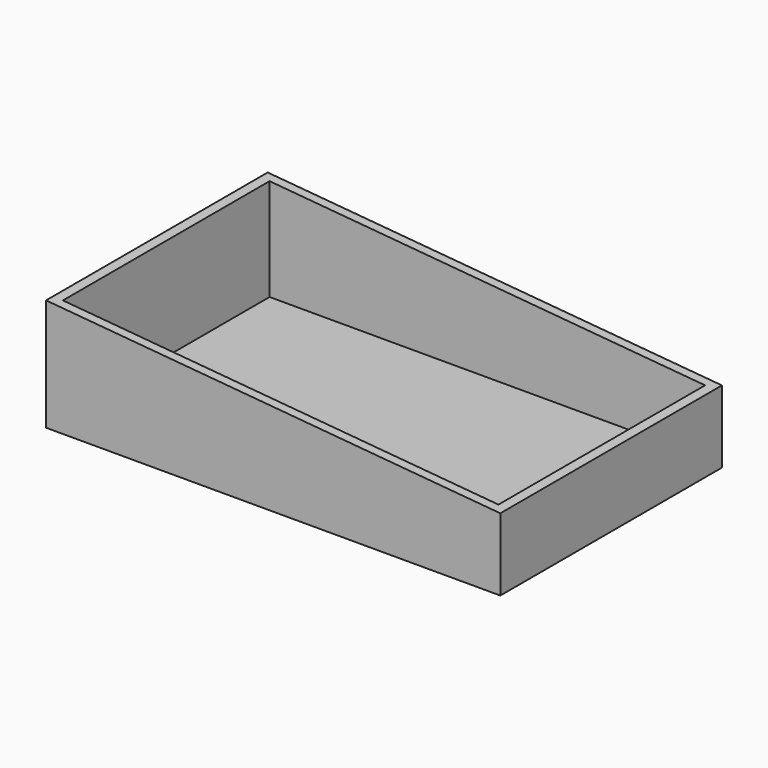
from build123d import *

# Parameters (mm, degrees)
F0_W     = 121.5
F0_H     = 74.1
F1_DEPTH = 30
F2_T     = -2.5
F5_DEPTH = 79.2


with BuildPart() as f1:
    # F0 (on Top) → F1 (new body)
    with BuildSketch(Plane.XY):
        Rectangle(F0_W, F0_H)
    extrude(amount=F1_DEPTH)

    # F2
    f2_openings = [f1.faces().sort_by_distance(p)[0] for p in [
        (0, 0, 30),
    ]]
    offset(amount=F2_T, openings=f2_openings)

    # F3 (on face) → F5 (cut)
    with BuildSketch(Plane(origin=(0, 37.05, 0), x_dir=(-1, 0, 0), z_dir=(0, 1, 0))):
        Polygon((-60.75, 19.370127), (60.75, 30), (-60.75, 30), align=None)
    extrude(amount=-F5_DEPTH, mode=Mode.SUBTRACT)


solid = f1.part
